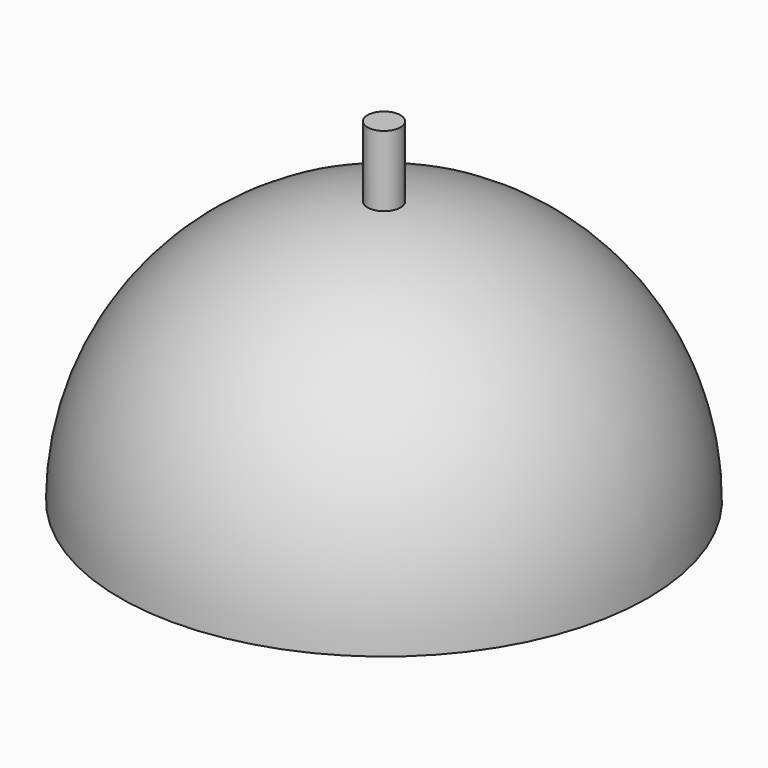
from build123d import *

# Parameters (mm, degrees)
F2_T     = -0.5
F4_R     = 1.25
F5_DEPTH = 12.5


with BuildPart() as f1:
    # F0 (on Front) → F1 (revolve)
    with BuildSketch(Plane.XZ):
        with BuildLine():
            Line((0, 20), (0, 0))
            Line((0, 0), (20, 0))
            ThreePointArc((20, 0), (14.1421356237, 14.1421356237), (0, 20))
        make_face()
    revolve(axis=Axis((0, 0, 10), (0, 0, 1)))

    # F2
    f2_openings = [f1.faces().sort_by_distance(p)[0] for p in [
        (0, 0, 0),
    ]]
    offset(amount=F2_T, openings=f2_openings)


with BuildPart() as f5:
    # F4 (on offset) → F5 (new body)
    with BuildSketch(Plane.XY.offset(12.8)):
        Circle(F4_R)
    extrude(amount=F5_DEPTH)


solid = Compound([f1.part, f5.part])
